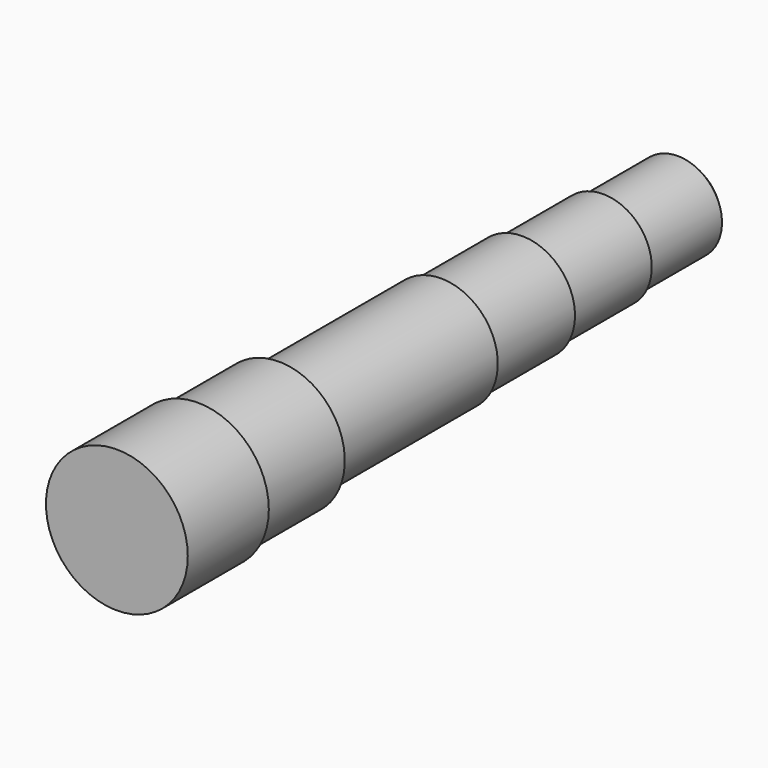
from build123d import *

# Parameters (mm, degrees)
F0_R      = 17.5
F1_DEPTH  = 25
F2_R      = 16.25
F3_DEPTH  = 25
F4_R      = 14
F5_DEPTH  = 50
F6_R      = 13.05
F7_DEPTH  = 25
F8_R      = 12
F9_DEPTH  = 25
F10_R     = 10.925
F11_DEPTH = 25
F12_SIZE  = 2


with BuildPart() as f1:
    # F0 (on Front) → F1 (new body)
    with BuildSketch(Plane.XZ):
        Circle(F0_R)
    extrude(amount=F1_DEPTH)

    # F2 (on face) → F3 (join)
    with BuildSketch(Plane(origin=(0, 0, 0), x_dir=(-1, 0, 0), z_dir=(0, 1, 0))):
        Circle(F2_R)
    extrude(amount=F3_DEPTH)

    # F4 (on face) → F5 (join)
    with BuildSketch(Plane(origin=(0, 25, 0), x_dir=(-1, 0, 0), z_dir=(0, 1, 0))):
        Circle(F4_R)
    extrude(amount=F5_DEPTH)

    # F6 (on face) → F7 (join)
    with BuildSketch(Plane(origin=(0, 75, 0), x_dir=(-1, 0, 0), z_dir=(0, 1, 0))):
        Circle(F6_R)
    extrude(amount=F7_DEPTH)

    # F8 (on face) → F9 (join)
    with BuildSketch(Plane(origin=(0, 100, 0), x_dir=(-1, 0, 0), z_dir=(0, 1, 0))):
        Circle(F8_R)
    extrude(amount=F9_DEPTH)

    # F10 (on face) → F11 (join)
    with BuildSketch(Plane(origin=(0, 125, 0), x_dir=(-1, 0, 0), z_dir=(0, 1, 0))):
        Circle(F10_R)
    extrude(amount=F11_DEPTH)

    # F12
    f12_edges = [f1.edges().sort_by_distance(p)[0] for p in [
        (10.925, 150, 0),
    ]]
    chamfer(f12_edges, length=F12_SIZE)


solid = f1.part
